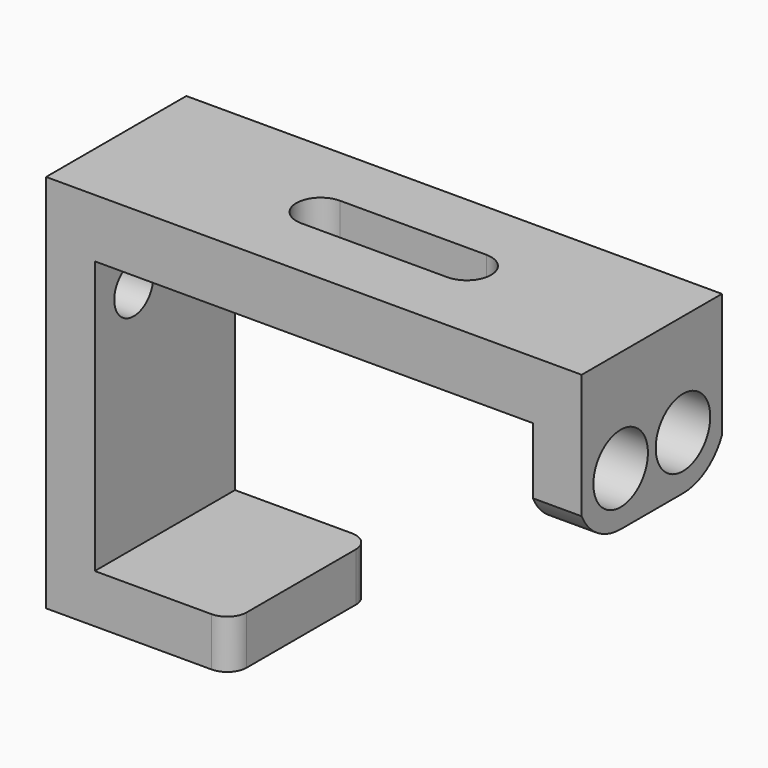
from build123d import *

# Parameters (mm, degrees)
PAD004_DEPTH    = 18
POCKET001_DEPTH = 6.001
SKETCH009_R     = 2.5
POCKET002_DEPTH = 5.001
SKETCH020_W     = 5
SKETCH020_H     = 18
PAD011_DEPTH    = 10
SKETCH021_R     = 3.5
POCKET007_DEPTH = 5
POCKET008_DEPTH = 5
POCKET009_DEPTH = 5


with BuildPart() as part:
    # Sketch007 → Pad004 (new body)
    with BuildSketch(Plane.XZ):
        Polygon((0, 0), (45, 0), (50, 0), (50, 6), (-5, 6), (-5, -33), (14, -33), (14, -28), (0, -28), align=None)
    extrude(amount=PAD004_DEPTH)

    # Sketch008 → Pocket001 (cut, through all)
    with BuildSketch(Plane.XY):
        with BuildLine():
            ThreePointArc((16, -6.5), (13.5, -9), (16, -11.5))
            Line((16, -11.5), (31, -11.5))
            ThreePointArc((31, -11.5), (33.5, -9), (31, -6.5))
            Line((16, -6.5), (31, -6.5))
        make_face()
    extrude(amount=POCKET001_DEPTH, mode=Mode.SUBTRACT)

    # Sketch009 → Pocket002 (cut, through all)
    with BuildSketch(Plane.YZ):
        with Locations((-5, -4.5)):
            Circle(SKETCH009_R)
        with Locations((-13, -4.5)):
            Circle(SKETCH009_R)
    extrude(amount=-POCKET002_DEPTH, mode=Mode.SUBTRACT)

    # Sketch020 → Pad011 (join)
    with BuildSketch(Plane.XY):
        with Locations((47.5, -9)):
            Rectangle(SKETCH020_W, SKETCH020_H)
    extrude(amount=-PAD011_DEPTH)

    # Sketch021 → Pocket007 (cut)
    with BuildSketch(Plane.YZ.offset(45)):
        with Locations((-13, -4.5)):
            Circle(SKETCH021_R)
        with Locations((-5, -4.5)):
            Circle(SKETCH021_R)
    extrude(amount=POCKET007_DEPTH, mode=Mode.SUBTRACT)

    # Sketch022 → Pocket008 (cut)
    with BuildSketch(Plane.YZ.offset(45)):
        with BuildLine():
            ThreePointArc((-18, -6.791288), (-15.970515, -9.128827), (-13, -10))
            Line((-18, -10), (-13, -10))
            Line((-18, -6.791288), (-18, -10))
        make_face()
        with BuildLine():
            Line((0, -10), (0, -6.791288))
            ThreePointArc((-5, -10), (-2.029485, -9.128827), (0, -6.791288))
            Line((-5, -10), (0, -10))
        make_face()
    extrude(amount=POCKET008_DEPTH, mode=Mode.SUBTRACT)

    # Sketch023 → Pocket009 (cut)
    with BuildSketch(Plane.XY.offset(-28)):
        with BuildLine():
            ThreePointArc((12, -18), (13.414214, -17.414214), (14, -16))
            Line((14, -18), (14, -16))
            Line((12, -18), (14, -18))
        make_face()
        with BuildLine():
            ThreePointArc((14, -2), (13.414214, -0.585786), (12, 0))
            Line((14, 0), (12, 0))
            Line((14, -2), (14, 0))
        make_face()
    extrude(amount=-POCKET009_DEPTH, mode=Mode.SUBTRACT)


solid = part.part
